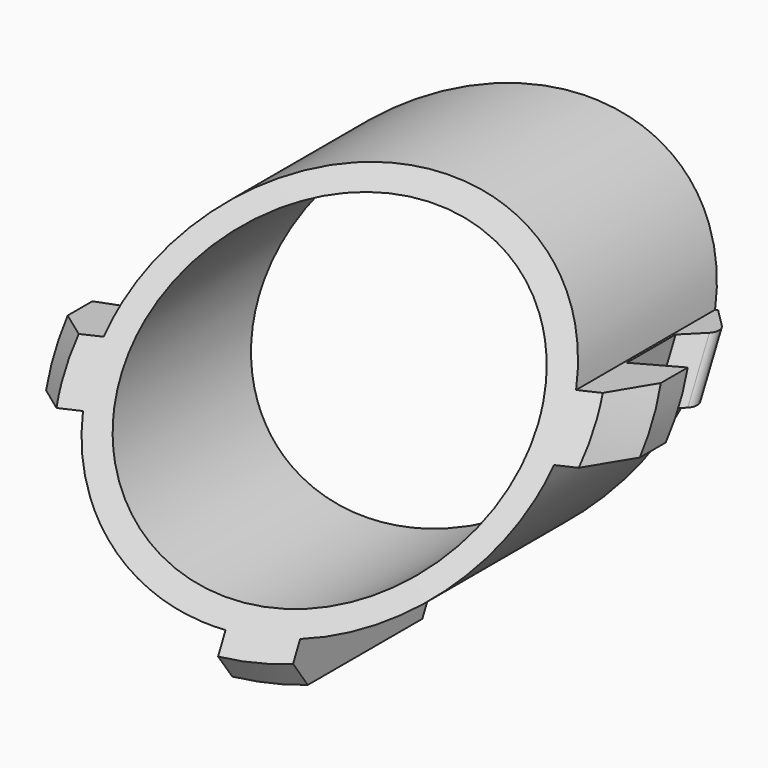
from build123d import *

# Parameters (mm, degrees)
SKETCH004_R       = 6.35
PAD001_DEPTH      = 85
PAD002_DEPTH      = 85
SKETCH016_R       = 5.55
POCKET_DEPTH      = 0.001
POCKET_DEPTH_BACK = 85.001
CHAMFER001_SIZE   = 1


with BuildPart() as part:
    # Sketch004 → Pad001 (new body)
    with BuildSketch(Plane.XZ):
        with Locations((43, 33.25)):
            Circle(SKETCH004_R)
    extrude(amount=PAD001_DEPTH)

    # Sketch017 → Pad002 (join)
    with BuildSketch(Plane.XZ):
        with BuildLine():
            Line((35.113144, 34.25), (50.886856, 34.25))
            ThreePointArc((50.886856, 32.25), (50.95, 33.25), (50.886856, 34.25))
            Line((44, 32.25), (50.886856, 32.25))
            Line((44, 32.25), (44, 25.363144))
            ThreePointArc((42, 25.363144), (43, 25.3), (44, 25.363144))
            Line((42, 32.25), (42, 25.363144))
            Line((35.113144, 32.25), (42, 32.25))
            ThreePointArc((35.113144, 34.25), (35.05, 33.25), (35.113144, 32.25))
        make_face()
    extrude(amount=PAD002_DEPTH)

    # Sketch016 → Pocket (cut, two sides)
    with BuildSketch(Plane.XZ) as pocket_sk:
        with Locations((43, 33.25)):
            Circle(SKETCH016_R)
    extrude(amount=-POCKET_DEPTH, mode=Mode.SUBTRACT)
    extrude(pocket_sk.sketch, amount=POCKET_DEPTH_BACK, mode=Mode.SUBTRACT)

    # Sketch014 (on DatumPlane) → SubtractiveLoft001 section 0
    with BuildSketch(Plane.XY.offset(10)):
        with BuildLine():
            Line((-2, 2), (-2, -87))
            Line((-2, -87), (76.866516, -87))
            Line((76.866516, -38.996654), (76.866516, -87))
            Line((0, -70.790865), (76.866516, -38.996654))
            Line((0, -70.790865), (0, -59.815429))
            ThreePointArc((0, -59.815429), (18.580156, -58.2705), (36.65, -53.678146))
            Line((36.65, -53.678146), (36.65, -51.378146))
            Line((36.65, -51.378146), (35.967157, -50.695303))
            ThreePointArc((35.967157, -50.129618), (35.85, -50.41246), (35.967157, -50.695303))
            Line((35.967157, -50.129618), (36.65, -49.446775))
            Line((36.65, -49.446775), (49.35, -44.182166))
            Line((50.032843, -44.865009), (49.35, -44.182166))
            ThreePointArc((50.032843, -45.430695), (50.15, -45.147852), (50.032843, -44.865009))
            Line((49.35, -46.113537), (50.032843, -45.430695))
            Line((49.35, -48.413537), (49.35, -46.113537))
            ThreePointArc((49.35, -48.413537), (64.17388, -39.716528), (77.5, -28.862961))
            Line((77.5, 2), (77.5, -28.862961))
            Line((-2, 2), (77.5, 2))
        make_face()
    # Sketch015 (on DatumPlane) → SubtractiveLoft001 section 1
    with BuildSketch(Plane.XY.offset(42)):
        with BuildLine():
            Line((-2, 2), (-2, -87))
            Line((-2, -87), (63.5, -87))
            Line((63.5, -87), (63.5, -27.765276))
            Line((0, -58.577105), (63.5, -27.765276))
            Line((0, -58.577105), (0, -45.815429))
            ThreePointArc((0, -45.815429), (18.663063, -44.031199), (36.65, -38.743146))
            Line((36.65, -38.743146), (36.65, -36.543146))
            Line((36.65, -36.543146), (35.967157, -35.860304))
            ThreePointArc((35.967157, -35.294618), (35.85, -35.577461), (35.967157, -35.860304))
            Line((35.967157, -35.294618), (36.65, -34.611775))
            Line((49.35, -28.429747), (36.65, -34.611775))
            Line((50.032843, -29.11259), (49.35, -28.429747))
            ThreePointArc((50.032843, -29.678275), (50.15, -29.395433), (50.032843, -29.11259))
            Line((49.35, -30.361118), (50.032843, -29.678275))
            Line((49.35, -30.361118), (49.35, -32.561118))
            ThreePointArc((49.35, -32.561118), (56.643736, -27.899157), (63.5, -22.614831))
            Line((63.5, 2), (63.5, -22.614831))
            Line((63.5, 2), (-2, 2))
        make_face()
    loft(mode=Mode.SUBTRACT)

    # Chamfer001
    chamfer001_edges = [part.edges().sort_by_distance(p)[0] for p in [
        (35.050008, -45.689757, 33.261359),
        (43.011121, -45.833884, 25.300008),
        (50.934027, -38.597846, 32.746296),
    ]]
    chamfer(chamfer001_edges, length=CHAMFER001_SIZE)


solid = part.part
